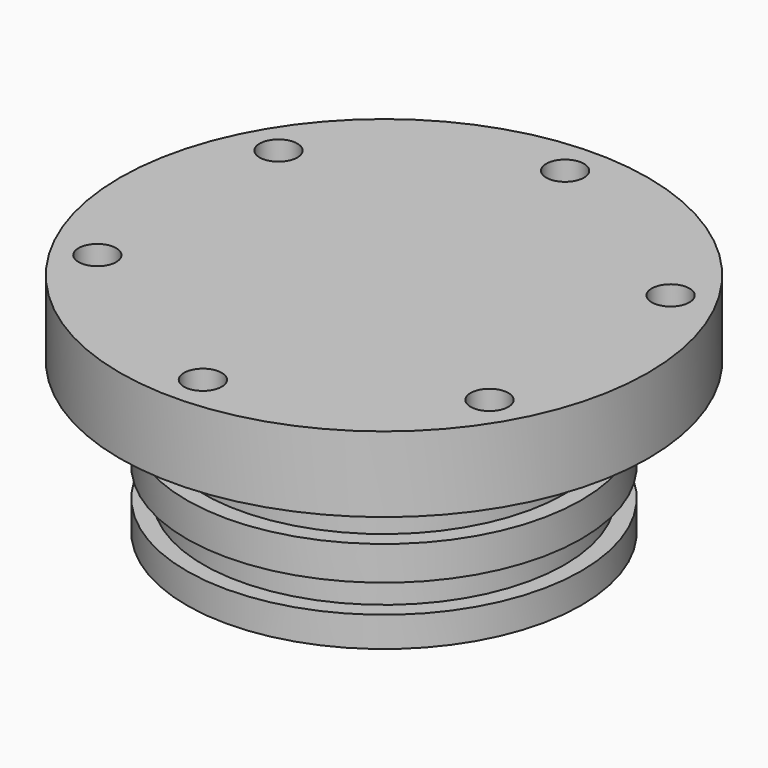
from build123d import *

# Parameters (mm, degrees)
F3_R     = 3.175
F4_DEPTH = 25.4


with BuildPart() as f2:
    # F0 (on Front) → F2 (revolve)
    with BuildSketch(Plane.XZ):
        Polygon((44.45, 38.1), (0, 38.1), (0, 0), (33.2105, 0), (33.2105, 5.08), (30.3911, 5.08), (30.3911, 9.8298), (33.2105, 9.8298), (33.2105, 15.5702), (30.3911, 15.5702), (30.3911, 20.32), (33.2105, 20.32), (33.2105, 25.4), (44.45, 25.4), align=None)
    revolve(axis=Axis((0, 0, 36.677974), (0, 0, -1)))

    # F3 (on face) → F4 (cut)
    with BuildSketch(Plane.XY.offset(38.1)):
        with Locations((0, -38.1)):
            Circle(F3_R)
        with Locations((32.995568, -19.05)):
            Circle(F3_R)
        with Locations((32.995568, 19.05)):
            Circle(F3_R)
        with Locations((0, 38.1)):
            Circle(F3_R)
        with Locations((-32.995568, 19.05)):
            Circle(F3_R)
        with Locations((-32.995568, -19.05)):
            Circle(F3_R)
    extrude(amount=-F4_DEPTH, mode=Mode.SUBTRACT)


solid = f2.part
